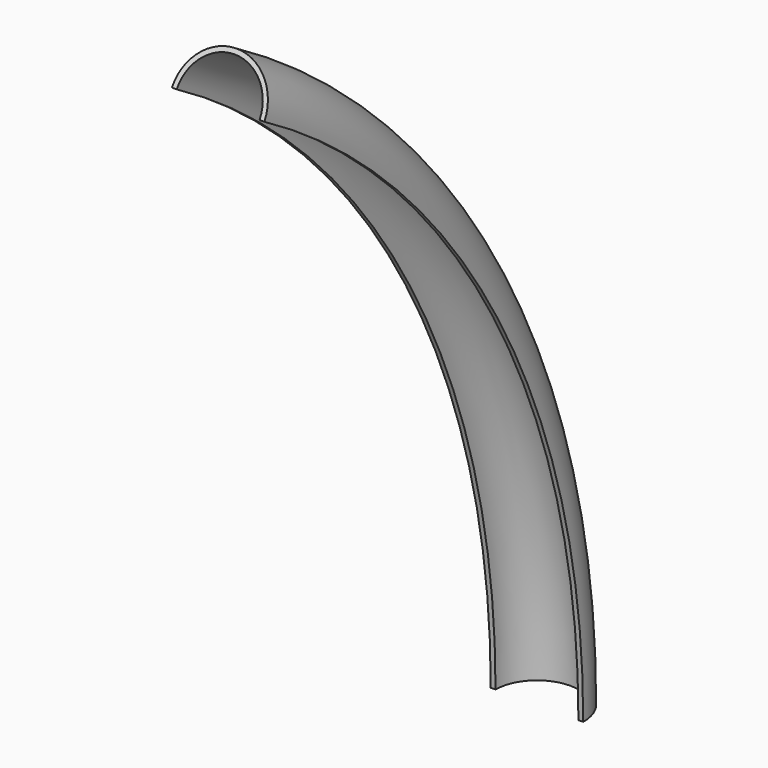
from build123d import *

# Parameters (mm, degrees)
REVOLUTION_ANGLE = 60


with BuildPart() as part:
    # Sketch → Revolution (revolve)
    with BuildSketch(Plane.XY):
        with BuildLine():
            ThreePointArc((13, 250), (0, 263), (-13, 250))
            Line((-13, 250), (-14.5, 250))
            ThreePointArc((14.5, 250), (0, 264.5), (-14.5, 250))
            Line((14.5, 250), (13, 250))
        make_face()
    revolve(axis=Axis((0, 0, 0), (1, 0, 0)), revolution_arc=REVOLUTION_ANGLE)


solid = part.part
